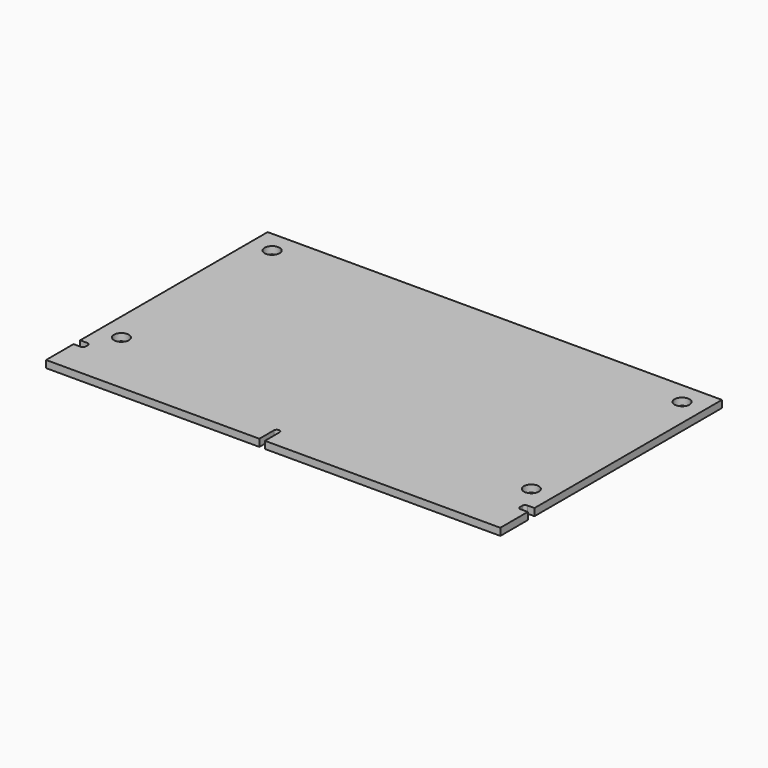
from build123d import *

# Parameters (mm, degrees)
F0_R     = 3
F0_R_2   = 1.35
F1_DEPTH = 1.3


with BuildPart() as f1:
    # F0 (on Top) → F1 (new body)
    with BuildSketch(Plane.XY):
        with BuildLine():
            Line((41, -17.3), (41, 25))
            Line((41, 25), (-41, 25))
            Line((-41, 25), (-41, -17.3))
            Line((-41, -17.3), (-39.701251, -17.3))
            ThreePointArc((-39.701251, -17.3), (-39.347698, -17.446447), (-39.201251, -17.8))
            Line((-39.201251, -17.8), (-39.201251, -18.3))
            ThreePointArc((-39.201251, -18.3), (-39.347698, -18.653553), (-39.701251, -18.8))
            Line((-39.701251, -18.8), (-41, -18.8))
            Line((-41, -18.8), (-41, -25))
            Line((-41, -25), (-2.5, -25))
            Line((-2.5, -25), (-2.5, -21.7))
            ThreePointArc((-2.5, -21.7), (-2, -21.2), (-1.5, -21.7))
            Line((-1.5, -21.7), (-1.5, -25))
            Line((-1.5, -25), (41, -25))
            Line((41, -25), (41, -18.8))
            Line((41, -18.8), (39.701251, -18.8))
            ThreePointArc((39.701251, -18.8), (39.347698, -18.653553), (39.201251, -18.3))
            Line((39.201251, -18.3), (39.201251, -17.8))
            ThreePointArc((39.201251, -17.8), (39.347698, -17.446447), (39.701251, -17.3))
            Line((39.701251, -17.3), (41, -17.3))
        make_face()
        with Locations((-37, -13)):
            Circle(F0_R, mode=Mode.SUBTRACT)
        with Locations((37, -13)):
            Circle(F0_R, mode=Mode.SUBTRACT)
        with Locations((-37, 21)):
            Circle(F0_R, mode=Mode.SUBTRACT)
        with Locations((37, 21)):
            Circle(F0_R, mode=Mode.SUBTRACT)
        with Locations((-37, -13)):
            Circle(F0_R)
        with Locations((-37, -13)):
            Circle(F0_R_2, mode=Mode.SUBTRACT)
        with Locations((-37, 21)):
            Circle(F0_R)
        with Locations((-37, 21)):
            Circle(F0_R_2, mode=Mode.SUBTRACT)
        with Locations((37, -13)):
            Circle(F0_R)
        with Locations((37, -13)):
            Circle(F0_R_2, mode=Mode.SUBTRACT)
        with Locations((37, 21)):
            Circle(F0_R)
        with Locations((37, 21)):
            Circle(F0_R_2, mode=Mode.SUBTRACT)
    extrude(amount=F1_DEPTH)


solid = f1.part
